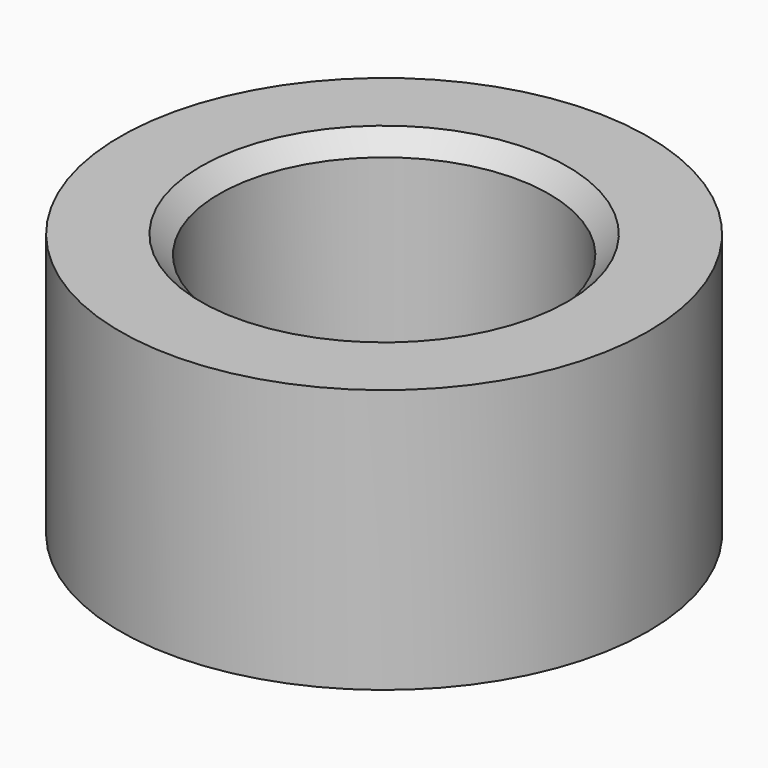
from build123d import *

# Parameters (mm, degrees)
F0_R     = 7.2
F1_DEPTH = 7.2
F2_R     = 4.5
F3_DEPTH = 7.201
F4_SIZE  = 0.5


with BuildPart() as f1:
    # F0 (on Top) → F1 (new body)
    with BuildSketch(Plane.XY):
        Circle(F0_R)
    extrude(amount=F1_DEPTH)

    # F2 (on face) → F3 (cut, through all)
    with BuildSketch(Plane.XY.offset(7.2)):
        Circle(F2_R)
    extrude(amount=-F3_DEPTH, mode=Mode.SUBTRACT)

    # F4
    f4_edges = [f1.edges().sort_by_distance(p)[0] for p in [
        (-4.5, 0, 7.2),
        (-4.5, 0, 0),
    ]]
    chamfer(f4_edges, length=F4_SIZE)


solid = f1.part
